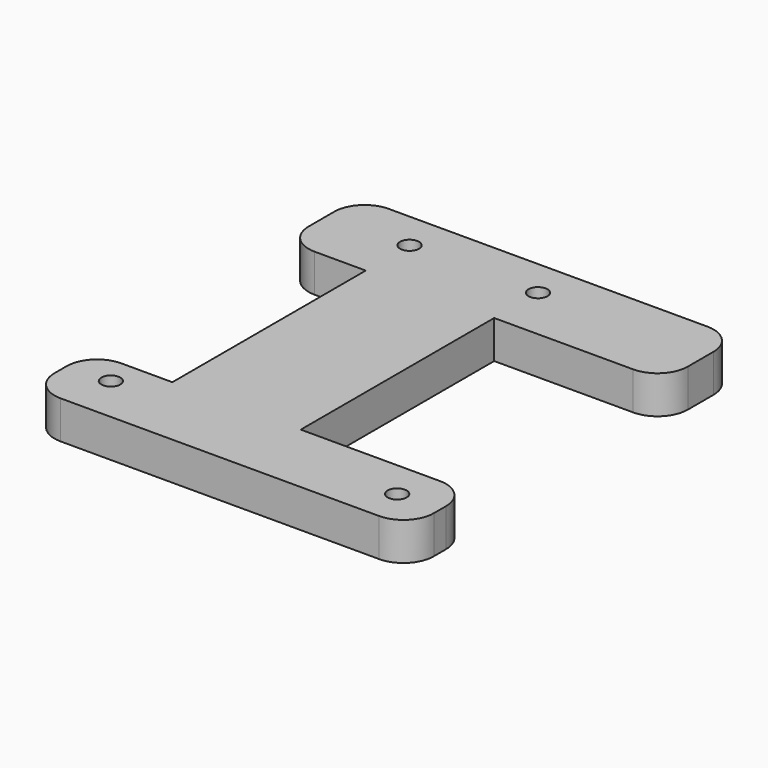
from build123d import *

# Parameters (mm, degrees)
F0_R     = 1.5875
F0_W     = 21.5011
F0_H     = 40.48125
F1_DEPTH = 6.35
F2_R     = 5.08


with BuildPart() as f1:
    # F0 (on Top) → F1 (new body)
    with BuildSketch(Plane.XY):
        Polygon((-41.617566, 53.18125), (-27.986656, 53.18125), (-6.485556, 53.18125), (21.882434, 53.18125), (21.882434, 68.69938), (-41.617566, 68.69938), align=None)
        with Locations((-27.986656, 62.34938)):
            Circle(F0_R, mode=Mode.SUBTRACT)
        with Locations((-6.485556, 62.34938)):
            Circle(F0_R, mode=Mode.SUBTRACT)
        with Locations((-17.236106, 32.940625)):
            Rectangle(F0_W, F0_H)
        Polygon((-41.617566, 12.7), (-41.617566, 0), (21.882434, 0), (21.882434, 12.7), (-6.485556, 12.7), (-27.986656, 12.7), align=None)
        with BuildLine():
            ThreePointArc((-32.886316, 7.9375), (-33.349189, 6.817068), (-34.467883, 6.350011))
            ThreePointArc((-34.467883, 6.350011), (-34.47085, 6.350003), (-34.473816, 6.35))
            ThreePointArc((-34.473816, 6.35), (-35.596348, 9.060032), (-32.886316, 7.9375))
        make_face(mode=Mode.SUBTRACT)
        with BuildLine():
            ThreePointArc((13.151184, 6.35), (14.738684, 7.9375), (16.326184, 6.35))
            ThreePointArc((16.326184, 6.35), (14.738684, 4.7625), (13.151184, 6.35))
        make_face(mode=Mode.SUBTRACT)
    extrude(amount=F1_DEPTH)

    # F2
    f2_edges = [f1.edges().sort_by_distance(p)[0] for p in [
        (21.882434, 0, 3.175),
        (21.882434, 12.7, 3.175),
        (-41.617566, 0, 3.175),
        (-41.617566, 12.7, 3.175),
        (21.882434, 53.18125, 3.175),
        (21.882434, 68.69938, 3.175),
        (-41.617566, 53.18125, 3.175),
        (-41.617566, 68.69938, 3.175),
    ]]
    fillet(f2_edges, radius=F2_R)


solid = f1.part
